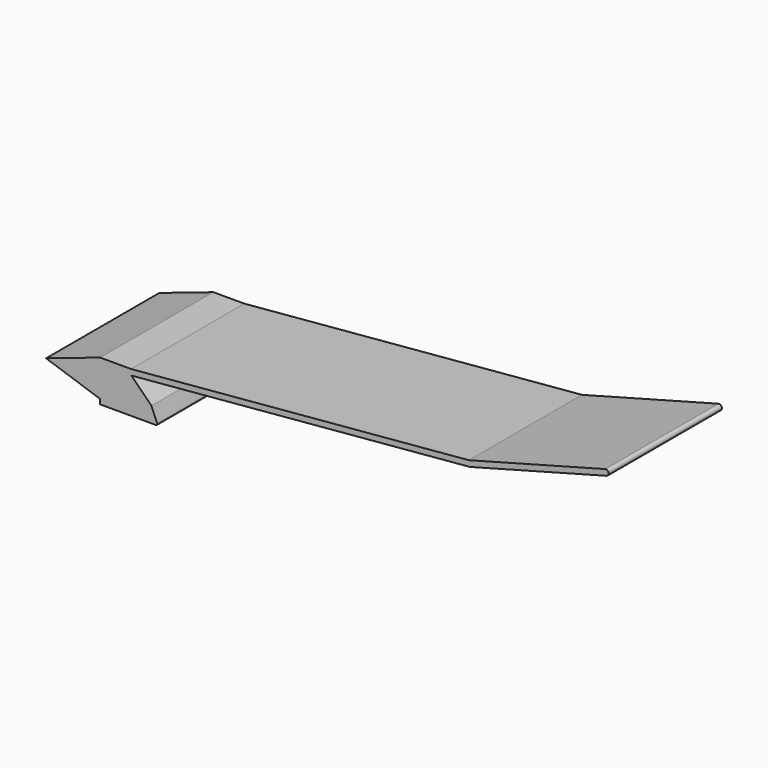
from build123d import *

# Parameters (mm, degrees)
F1_DEPTH = 25
F2_DEPTH = 12.5


with BuildPart() as f1:
    # F0 (on Front) → F1 (new body, symmetric)
    with BuildSketch(Plane.XZ):
        with BuildLine():
            Line((-2.408674, -10.917151), (-4.461097, -6.113606))
            Line((-4.461097, -6.113606), (-5.875311, -4.699392))
            Line((-5.875311, -4.699392), (-11.532165, 0.957462))
            Line((-11.532165, 0.957462), (108.011199, 11.416151))
            Line((108.011199, 11.416151), (156.30749, 24.357103))
            ThreePointArc((156.30749, 24.357103), (157.014597, 25.581849), (155.789852, 26.288956))
            Line((155.789852, 26.288956), (107.662575, 13.393291))
            Line((107.662575, 13.393291), (-11.619487, 2.957463))
            Line((-11.619487, 2.957463), (-22.568457, 2.957463))
            Line((-22.568457, 2.957463), (-41.653733, -3.478072))
            Line((-41.653733, -3.478072), (-22.568462, -9.913606))
            Line((-22.568462, -9.913606), (-22.568462, -11.613606))
            Line((-22.568462, -11.613606), (-2.868462, -11.613606))
            ThreePointArc((-2.868462, -11.613606), (-2.451193, -11.38908), (-2.408674, -10.917151))
        make_face()
    extrude(amount=F1_DEPTH, both=True)

    # F0 (on Front) → F2 (join, symmetric)
    with BuildSketch(Plane.XZ):
        Polygon((-11.532165, 0.957462), (-5.875311, -4.699392), (108.011199, 11.416151), align=None)
    extrude(amount=F2_DEPTH, both=True)


solid = f1.part
